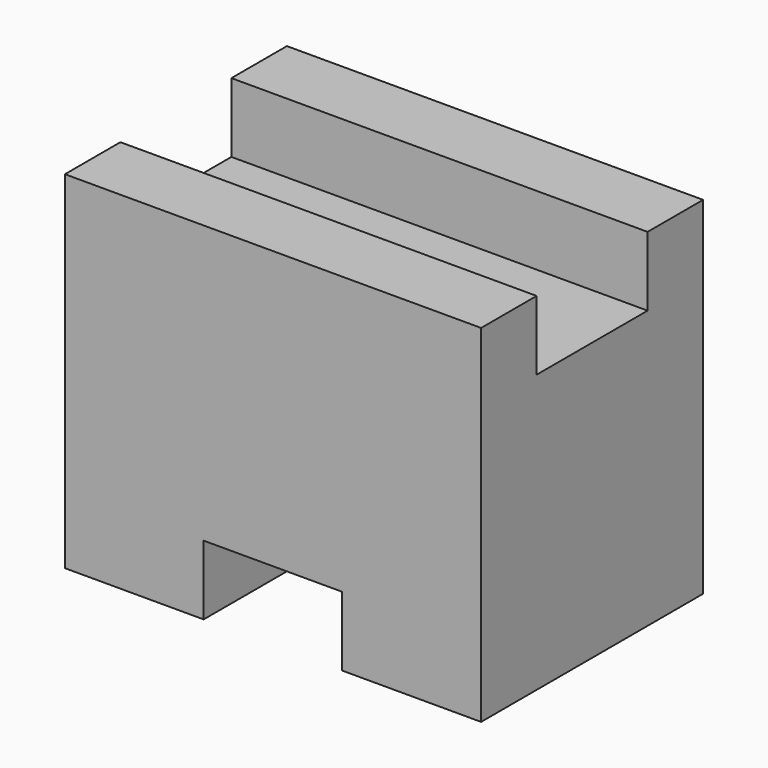
from build123d import *

# Parameters (mm, degrees)
F0_W     = 38.1
F0_H     = 31.75
F1_DEPTH = 25.4
F2_W     = 12.7
F2_H     = 6.35
F3_DEPTH = 38.101
F4_W     = 12.649203
F4_H     = 6.35
F5_DEPTH = 25.401


with BuildPart() as f1:
    # F0 (on Front) → F1 (new body)
    with BuildSketch(Plane.XZ):
        with Locations((-6.299203, 15.875)):
            Rectangle(F0_W, F0_H)
    extrude(amount=F1_DEPTH)

    # F2 (on face) → F3 (cut, through all)
    with BuildSketch(Plane.YZ.offset(12.750797)):
        with Locations((-12.7, 28.575)):
            Rectangle(F2_W, F2_H)
    extrude(amount=-F3_DEPTH, mode=Mode.SUBTRACT)

    # F4 (on face) → F5 (cut, through all)
    with BuildSketch(Plane(origin=(0, 0, 0), x_dir=(-1, 0, 0), z_dir=(0, 1, 0))):
        with Locations((6.324601, 3.175)):
            Rectangle(F4_W, F4_H)
    extrude(amount=-F5_DEPTH, mode=Mode.SUBTRACT)


solid = f1.part
